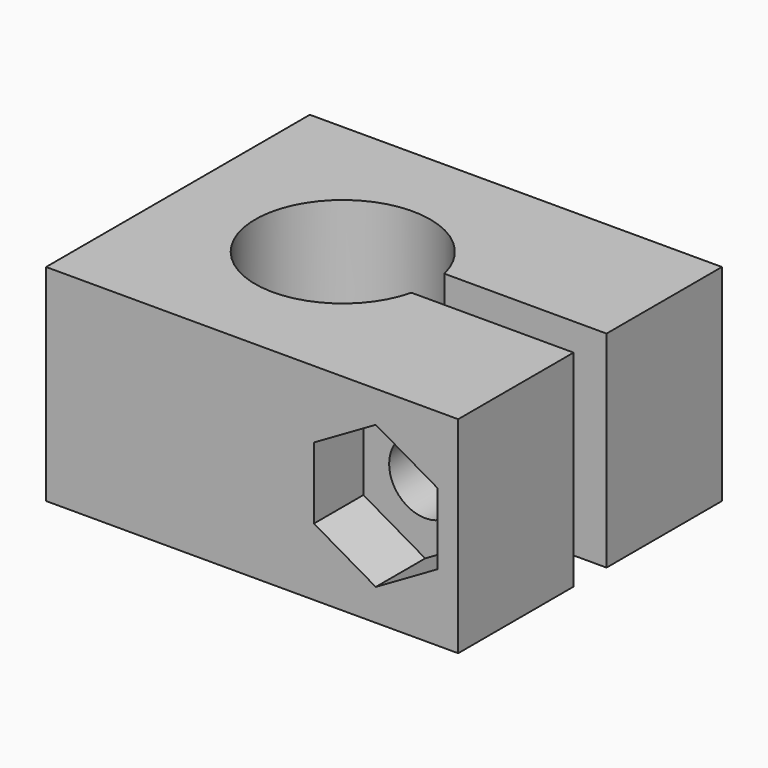
from build123d import *

# Parameters (mm, degrees)
PAD_DEPTH       = 10
SKETCH001_R     = 1.75
POCKET_DEPTH    = 16
SKETCH002_R     = 3
POCKET001_DEPTH = 3.5
POCKET002_DEPTH = 3


with BuildPart() as part:
    # Sketch → Pad (new body)
    with BuildSketch(Plane.XY):
        with BuildLine():
            Line((0, 0), (0, 16))
            Line((0, 16), (20, 16))
            Line((20, 16), (20, 9))
            Line((20, 9), (12.130678, 9))
            ThreePointArc((12.130678, 9), (3.75, 8), (12.130678, 7))
            Line((12.130678, 7), (20, 7))
            Line((20, 7), (20, 0))
            Line((20, 0), (0, 0))
        make_face()
    extrude(amount=PAD_DEPTH)

    # Sketch001 → Pocket (cut)
    with BuildSketch(Plane(origin=(0, 16, 0), x_dir=(-1, 0, 0), z_dir=(0, 1, 0))):
        with Locations((-16, 4.999996)):
            Circle(SKETCH001_R)
    extrude(amount=-POCKET_DEPTH, mode=Mode.SUBTRACT)

    # Sketch002 → Pocket001 (cut)
    with BuildSketch(Plane(origin=(0, 16, 0), x_dir=(-1, 0, 0), z_dir=(0, 1, 0))):
        with Locations((-16, 5)):
            Circle(SKETCH002_R)
    extrude(amount=-POCKET001_DEPTH, mode=Mode.SUBTRACT)

    # Sketch003 → Pocket002 (cut)
    with BuildSketch(Plane.XZ):
        Polygon((15.999999, 8.461405), (13, 6.729354), (13, 3.265252), (16, 1.533202), (19, 3.265253), (19, 6.729355), align=None)
    extrude(amount=-POCKET002_DEPTH, mode=Mode.SUBTRACT)


solid = part.part
